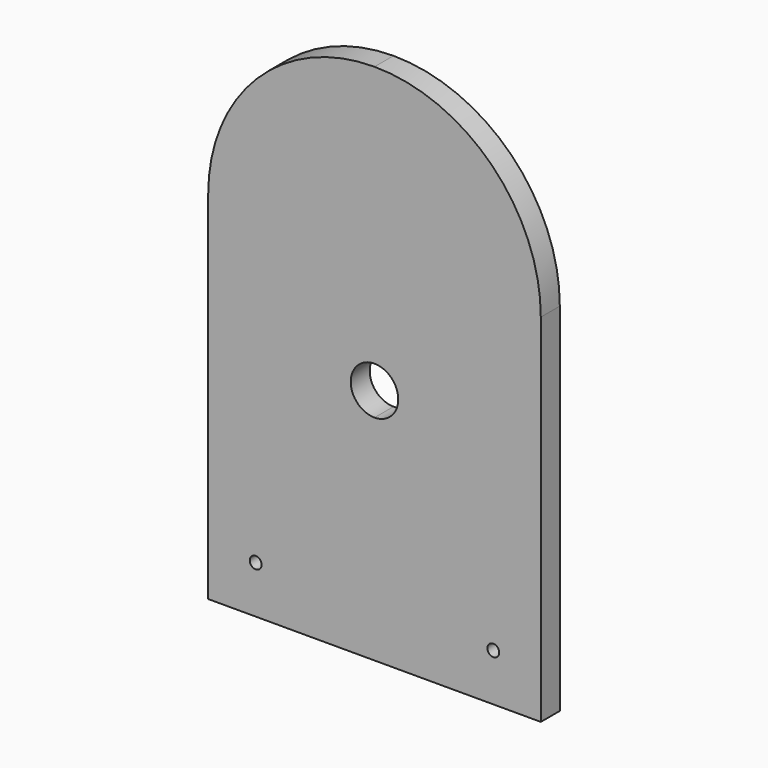
from build123d import *

# Parameters (mm, degrees)
F1_DEPTH = 12.7
F2_R     = 3.175
F3_DEPTH = 12.701


with BuildPart() as f1:
    # F0 (on Front) → F1 (new body)
    with BuildSketch(Plane.XZ):
        with BuildLine():
            ThreePointArc((12.7, -12.7), (-8.980256, -3.719744), (0, -25.4))
            ThreePointArc((0, -25.4), (8.980256, -21.680256), (12.7, -12.7))
        make_face()
        with BuildLine():
            Line((0, -139.7), (88.9, -139.7))
            Line((88.9, -139.7), (88.9, 50.8))
            ThreePointArc((88.9, 50.8), (62.861793, 113.661793), (0, 139.7))
            ThreePointArc((0, 139.7), (-62.861793, 113.661793), (-88.9, 50.8))
            Line((-88.9, 50.8), (-88.9, -139.7))
            Line((-88.9, -139.7), (0, -139.7))
        make_face()
        with BuildLine():
            ThreePointArc((12.7, -12.7), (8.980256, -21.680256), (0, -25.4))
            ThreePointArc((0, -25.4), (-8.980256, -3.719744), (12.7, -12.7))
        make_face(mode=Mode.SUBTRACT)
    extrude(amount=F1_DEPTH)

    # F2 (on face) → F3 (cut, through all)
    with BuildSketch(Plane.XZ.offset(12.7)):
        with BuildLine():
            ThreePointArc((-66.675, -114.3), (-63.5, -117.475), (-60.325, -114.3))
            ThreePointArc((-60.325, -114.3), (-63.5, -111.125), (-66.675, -114.3))
        make_face()
        with Locations((63.5, -114.3)):
            Circle(F2_R)
    extrude(amount=-F3_DEPTH, mode=Mode.SUBTRACT)


solid = f1.part
